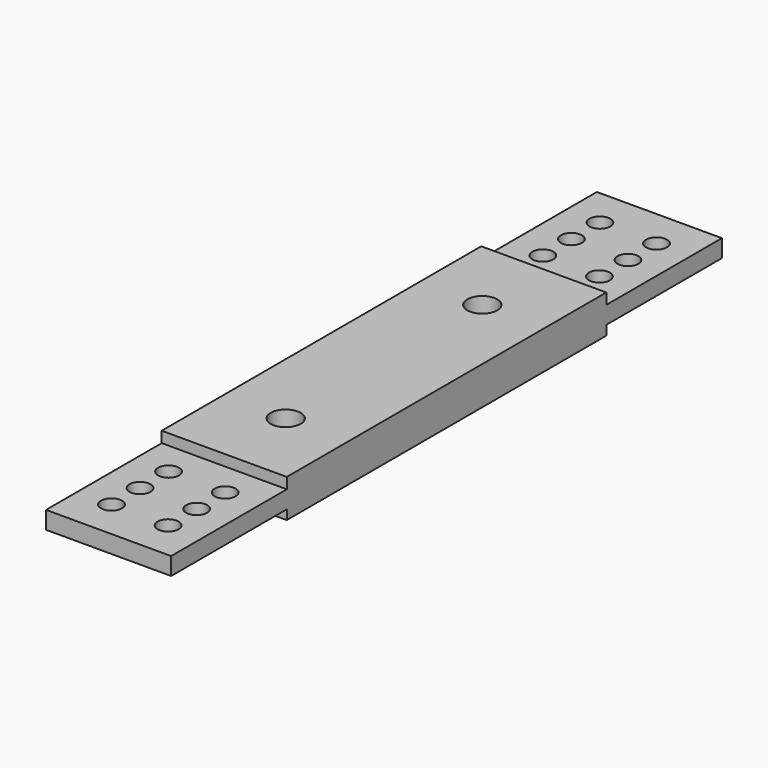
from build123d import *

# Parameters (mm, degrees)
CYLINDER042_R     = 3.15
CYLINDER042_DEPTH = 10
ARRAY016_Y_COUNT  = 2
ARRAY016_Y_PITCH  = 51.7
CYLINDER036_R     = 2.2
CYLINDER036_DEPTH = 26
ARRAY010_X_COUNT  = 2
ARRAY010_X_PITCH  = 11.9
ARRAY010_Y_COUNT  = 3
ARRAY010_Y_PITCH  = 7.5
CYLINDER035_R     = 2.2
CYLINDER035_DEPTH = 26
ARRAY009_X_COUNT  = 2
ARRAY009_X_PITCH  = 11.9
ARRAY009_Y_COUNT  = 3
ARRAY009_Y_PITCH  = 7.5
BOX041_W          = 26.3
BOX041_H          = 84
BOX041_DEPTH      = 8
BOX040_W          = 26.3
BOX040_H          = 144.8
BOX040_DEPTH      = 3.7


with BuildPart() as obj1:
    # Cylinder042 → Cylinder042 (new body)
    with BuildSketch(Plane(origin=(-15.15, -63.15, -71), x_dir=(1, 0, 0), z_dir=(0, 0, 1))):
        Circle(CYLINDER042_R)
    extrude(amount=CYLINDER042_DEPTH)

    # Array016 Y: obj1 ×2


with BuildPart() as obj1_1:
    add(obj1.part)
    with Locations(*[(0, -i * ARRAY016_Y_PITCH, 0) for i in range(1, ARRAY016_Y_COUNT)]):
        add(obj1.part)


with BuildPart() as taladros_cadera_centro1:
    # Cylinder036 → Cylinder036 (new body)
    with BuildSketch(Plane(origin=(-9.2, -39.8, -80), x_dir=(1, 0, 0), z_dir=(0, 0, 1))):
        Circle(CYLINDER036_R)
    extrude(amount=CYLINDER036_DEPTH)

    # Array010 X: Taladros_cadera_centro1 ×2


with BuildPart() as taladros_cadera_centro1_1:
    add(taladros_cadera_centro1.part)
    with Locations(*[(-i * ARRAY010_X_PITCH, 0, 0) for i in range(1, ARRAY010_X_COUNT)]):
        add(taladros_cadera_centro1.part)

    # Array010 Y: Taladros_cadera_centro1 ×3


with BuildPart() as taladros_cadera_centro1_2:
    add(taladros_cadera_centro1_1.part)
    with Locations(*[(0, i * ARRAY010_Y_PITCH, 0) for i in range(1, ARRAY010_Y_COUNT)]):
        add(taladros_cadera_centro1_1.part)


with BuildPart() as taladros_cadera_centro1_3:
    # Array010 placement: moved
    add(taladros_cadera_centro1_2.part.moved(Location((0, -113.4, 0))))


with BuildPart() as taladros_cadera_centro:
    # Cylinder035 → Cylinder035 (new body)
    with BuildSketch(Plane(origin=(-9.2, -39.8, -80), x_dir=(1, 0, 0), z_dir=(0, 0, 1))):
        Circle(CYLINDER035_R)
    extrude(amount=CYLINDER035_DEPTH)

    # Array009 X: Taladros_cadera_centro ×2


with BuildPart() as taladros_cadera_centro_1:
    add(taladros_cadera_centro.part)
    with Locations(*[(-i * ARRAY009_X_PITCH, 0, 0) for i in range(1, ARRAY009_X_COUNT)]):
        add(taladros_cadera_centro.part)

    # Array009 Y: Taladros_cadera_centro ×3


with BuildPart() as taladros_cadera_centro_2:
    add(taladros_cadera_centro_1.part)
    with Locations(*[(0, i * ARRAY009_Y_PITCH, 0) for i in range(1, ARRAY009_Y_COUNT)]):
        add(taladros_cadera_centro_1.part)


with BuildPart() as cadera_base_centro001:
    # Box041 → Box041 (new body)
    with BuildSketch(Plane(origin=(-28.3, -133, -70), x_dir=(1, 0, 0), z_dir=(0, 0, 1))):
        with Locations((13.15, 42)):
            Rectangle(BOX041_W, BOX041_H)
    extrude(amount=BOX041_DEPTH)


with BuildPart() as cadera_centro_full:
    # Box040 → Box040 (new body)
    with BuildSketch(Plane(origin=(-28.3, -163.4, -68), x_dir=(1, 0, 0), z_dir=(0, 0, 1))):
        with Locations((13.15, 72.4)):
            Rectangle(BOX040_W, BOX040_H)
    extrude(amount=BOX040_DEPTH)

    # Fusion009003047: union Cadera_base_centro001
    add(cadera_base_centro001.part)


with BuildPart() as cadera_centro_full_1:
    # Fusion009003047 placement: moved
    add(cadera_centro_full.part.moved(Location((0, 2, 0))))

    # Cut035: cut Taladros_cadera_centro
    add(taladros_cadera_centro_2.part, mode=Mode.SUBTRACT)

    # Cut036: cut Taladros_cadera_centro1
    add(taladros_cadera_centro1_3.part, mode=Mode.SUBTRACT)

    # Cut049: cut obj1
    add(obj1_1.part, mode=Mode.SUBTRACT)


solid = cadera_centro_full_1.part
